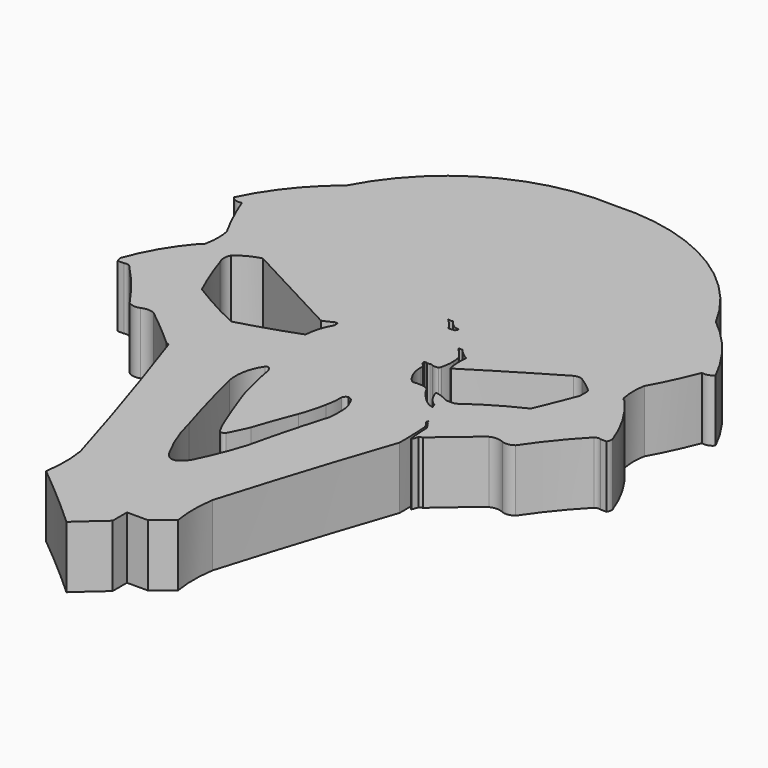
from build123d import *

# Parameters (mm, degrees)
F1_DEPTH  = 10.16
F4_DEPTH  = 25.4
F6_DEPTH  = 25.4
F7_DEPTH  = 25.4
F10_DEPTH = 25.4
F12_DEPTH = 25.4
F14_DEPTH = 25.4
F15_DEPTH = 25.4


with BuildPart() as f1:
    # F0 (on Top) → F1 (new body)
    with BuildSketch(Plane.XY):
        with BuildLine():
            ThreePointArc((0, 63.767748), (-17.65448, 59.682045), (-30.2726, 46.67602))
            ThreePointArc((-30.2726, 46.67602), (-35.533022, 41.398079), (-39.503437, 35.092168))
            ThreePointArc((-39.503437, 35.092168), (-38.70261, 34.534581), (-37.726826, 34.526207))
            ThreePointArc((-37.726826, 34.526207), (-36.116118, 30.735044), (-34.240589, 27.067663))
            ThreePointArc((-34.240589, 27.067663), (-34.053575, 25.094095), (-34.240589, 23.120526))
            ThreePointArc((-34.240589, 23.120526), (-34.405995, 22.577197), (-34.863163, 22.240207))
            ThreePointArc((-34.863163, 22.240207), (-38.005883, 17.866617), (-40.286936, 12.98791))
            ThreePointArc((-40.286936, 12.98791), (-40.250801, 12.501533), (-40.091339, 12.040622))
            ThreePointArc((-40.091339, 12.040622), (-39.578028, 12.030609), (-39.064717, 12.040622))
            ThreePointArc((-39.064717, 12.040622), (-38.570717, 12.093346), (-38.108911, 11.910179))
            ThreePointArc((-38.108911, 11.910179), (-34.708394, 8.065004), (-31.652335, 3.940761))
            ThreePointArc((-31.652335, 3.940761), (-30.702229, 3.532546), (-29.675039, 3.651797))
            ThreePointArc((-29.675039, 3.651797), (-28.585885, 3.905891), (-27.496731, 3.651797))
            ThreePointArc((-27.496731, 3.651797), (-24.212077, 0.972125), (-21.017917, -1.814796))
            ThreePointArc((-21.017917, -1.814796), (-20.731555, -1.896254), (-20.494564, -2.076457))
            ThreePointArc((-20.494564, -2.076457), (-15.499123, -17.06099), (-10.832877, -32.151278))
            ThreePointArc((-10.832877, -32.151278), (-10.54642, -35.683524), (-10.832877, -39.21577))
            ThreePointArc((-10.832877, -39.21577), (-5.34871, -43.824728), (0, -48.590217))
            Line((0, -48.590217), (0, 63.767748))
        make_face()
    extrude(amount=F1_DEPTH)

    # F2: F1 across plane


with BuildPart() as f1_1:
    add(f1.part)
    add(f1.part.mirror(Plane.YZ))

    # F3 (on face) → F4 (cut)
    with BuildSketch(Plane.XY.offset(10.16)):
        with BuildLine():
            ThreePointArc((-9.440057, 15.366854), (-17.723331, 19.770255), (-26.004789, 24.177067))
            ThreePointArc((-26.004789, 24.177067), (-27.957882, 23.437747), (-29.686313, 22.265701))
            ThreePointArc((-29.686313, 22.265701), (-29.950673, 21.145853), (-29.686313, 20.026006))
            ThreePointArc((-29.686313, 20.026006), (-28.328352, 16.27698), (-26.759041, 12.611394))
            ThreePointArc((-26.759041, 12.611394), (-22.577773, 10.165898), (-18.256141, 7.977986))
            ThreePointArc((-18.256141, 7.977986), (-13.363238, 9.424709), (-8.54657, 11.107927))
            ThreePointArc((-8.54657, 11.107927), (-8.163016, 13.311383), (-7.281333, 15.366854))
            ThreePointArc((-7.281333, 15.366854), (-7.263902, 15.767226), (-7.349596, 16.158707))
            ThreePointArc((-7.349596, 16.158707), (-7.465644, 16.142321), (-7.581691, 16.158707))
            ThreePointArc((-7.581691, 16.158707), (-7.765296, 16.10891), (-7.943197, 16.041516))
            ThreePointArc((-7.943197, 16.041516), (-8.665246, 15.645654), (-9.440057, 15.366854))
        make_face()
    extrude(amount=-F4_DEPTH, mode=Mode.SUBTRACT)

    # F5 (on face) → F6 (cut)
    with BuildSketch(Plane.XY.offset(10.16)):
        with BuildLine():
            ThreePointArc((26.779845, 23.610441), (26.097924, 23.761206), (25.416004, 23.610441))
            ThreePointArc((25.416004, 23.610441), (18.607041, 19.554149), (11.872991, 15.374669))
            ThreePointArc((11.872991, 15.374669), (11.784563, 15.399125), (11.740611, 15.479661))
            ThreePointArc((11.740611, 15.479661), (11.544661, 17.116567), (11.585694, 18.764649))
            ThreePointArc((11.585694, 18.764649), (11.552172, 18.854706), (11.483606, 18.922031))
            ThreePointArc((11.483606, 18.922031), (10.525412, 19.57962), (9.721251, 20.418598))
            ThreePointArc((9.721251, 20.418598), (9.463476, 20.352349), (9.205701, 20.418598))
            ThreePointArc((9.205701, 20.418598), (9.216779, 20.268047), (9.28207, 20.13194))
            ThreePointArc((9.28207, 20.13194), (9.992951, 19.397913), (10.64459, 18.610822))
            ThreePointArc((10.64459, 18.610822), (10.845006, 17.887798), (10.89716, 17.139327))
            ThreePointArc((10.89716, 17.139327), (10.86894, 16.030174), (10.64459, 14.943582))
            ThreePointArc((10.64459, 14.943582), (10.577259, 14.755271), (10.445807, 14.604555))
            ThreePointArc((10.445807, 14.604555), (9.979169, 14.503294), (9.512532, 14.604555))
            ThreePointArc((9.512532, 14.604555), (9.270359, 14.674513), (9.018873, 14.691722))
            ThreePointArc((9.018873, 14.691722), (8.746697, 14.647151), (8.479292, 14.714682))
            ThreePointArc((8.479292, 14.714682), (8.273683, 14.689702), (8.070121, 14.727926))
            ThreePointArc((8.070121, 14.727926), (8.03469, 14.541827), (8.070121, 14.355727))
            ThreePointArc((8.070121, 14.355727), (8.149485, 14.209785), (8.254112, 14.080747))
            ThreePointArc((8.254112, 14.080747), (8.625749, 13.721408), (8.698206, 13.20956))
            ThreePointArc((8.698206, 13.20956), (8.882241, 11.717422), (9.502169, 10.347737))
            ThreePointArc((9.502169, 10.347737), (9.882135, 9.818735), (10.377591, 9.395958))
            ThreePointArc((10.377591, 9.395958), (11.242879, 9.460882), (12.108167, 9.395958))
            ThreePointArc((12.108167, 9.395958), (12.573095, 9.259067), (12.980684, 8.996828))
            ThreePointArc((12.980684, 8.996828), (13.698572, 7.878211), (14.580314, 6.883626))
            ThreePointArc((14.580314, 6.883626), (15.13573, 6.352216), (15.763463, 5.908555))
            ThreePointArc((15.763463, 5.908555), (16.273342, 5.65783), (16.83897, 5.603942))
            ThreePointArc((16.83897, 5.603942), (16.601574, 5.836098), (16.552264, 6.16446))
            ThreePointArc((16.552264, 6.16446), (15.568637, 6.990271), (14.902712, 8.088463))
            ThreePointArc((14.902712, 8.088463), (14.764083, 8.342366), (14.646014, 8.606459))
            ThreePointArc((14.646014, 8.606459), (14.603897, 8.784513), (14.646014, 8.962567))
            ThreePointArc((14.646014, 8.962567), (15.764009, 8.643203), (16.80848, 8.132336))
            ThreePointArc((16.80848, 8.132336), (17.619404, 8.067218), (18.430328, 8.132336))
            ThreePointArc((18.430328, 8.132336), (22.485553, 10.805644), (26.779845, 13.075112))
            ThreePointArc((26.779845, 13.075112), (28.172048, 16.405059), (29.496718, 19.762442))
            ThreePointArc((29.496718, 19.762442), (29.514459, 20.575022), (29.496718, 21.387603))
            ThreePointArc((29.496718, 21.387603), (29.404906, 21.57474), (29.264623, 21.728918))
            ThreePointArc((29.264623, 21.728918), (28.05393, 22.711537), (26.779845, 23.610441))
        make_face()
    extrude(amount=-F6_DEPTH, mode=Mode.SUBTRACT)

    # F5 (on face) → F7 (cut)
    with BuildSketch(Plane.XY.offset(10.16)):
        with BuildLine():
            ThreePointArc((26.779845, 23.610441), (26.097924, 23.761206), (25.416004, 23.610441))
            ThreePointArc((25.416004, 23.610441), (18.607041, 19.554149), (11.872991, 15.374669))
            ThreePointArc((11.872991, 15.374669), (11.784563, 15.399125), (11.740611, 15.479661))
            ThreePointArc((11.740611, 15.479661), (11.544661, 17.116567), (11.585694, 18.764649))
            ThreePointArc((11.585694, 18.764649), (11.552172, 18.854706), (11.483606, 18.922031))
            ThreePointArc((11.483606, 18.922031), (10.525412, 19.57962), (9.721251, 20.418598))
            ThreePointArc((9.721251, 20.418598), (9.463476, 20.352349), (9.205701, 20.418598))
            ThreePointArc((9.205701, 20.418598), (9.216779, 20.268047), (9.28207, 20.13194))
            ThreePointArc((9.28207, 20.13194), (9.992951, 19.397913), (10.64459, 18.610822))
            ThreePointArc((10.64459, 18.610822), (10.845006, 17.887798), (10.89716, 17.139327))
            ThreePointArc((10.89716, 17.139327), (10.86894, 16.030174), (10.64459, 14.943582))
            ThreePointArc((10.64459, 14.943582), (10.577259, 14.755271), (10.445807, 14.604555))
            ThreePointArc((10.445807, 14.604555), (9.979169, 14.503294), (9.512532, 14.604555))
            ThreePointArc((9.512532, 14.604555), (9.270359, 14.674513), (9.018873, 14.691722))
            ThreePointArc((9.018873, 14.691722), (8.746697, 14.647151), (8.479292, 14.714682))
            ThreePointArc((8.479292, 14.714682), (8.273683, 14.689702), (8.070121, 14.727926))
            ThreePointArc((8.070121, 14.727926), (8.03469, 14.541827), (8.070121, 14.355727))
            ThreePointArc((8.070121, 14.355727), (8.149485, 14.209785), (8.254112, 14.080747))
            ThreePointArc((8.254112, 14.080747), (8.625749, 13.721408), (8.698206, 13.20956))
            ThreePointArc((8.698206, 13.20956), (8.882241, 11.717422), (9.502169, 10.347737))
            ThreePointArc((9.502169, 10.347737), (9.882135, 9.818735), (10.377591, 9.395958))
            ThreePointArc((10.377591, 9.395958), (11.242879, 9.460882), (12.108167, 9.395958))
            ThreePointArc((12.108167, 9.395958), (12.573095, 9.259067), (12.980684, 8.996828))
            ThreePointArc((12.980684, 8.996828), (13.698572, 7.878211), (14.580314, 6.883626))
            ThreePointArc((14.580314, 6.883626), (15.13573, 6.352216), (15.763463, 5.908555))
            ThreePointArc((15.763463, 5.908555), (16.273342, 5.65783), (16.83897, 5.603942))
            ThreePointArc((16.83897, 5.603942), (16.601574, 5.836098), (16.552264, 6.16446))
            ThreePointArc((16.552264, 6.16446), (15.568637, 6.990271), (14.902712, 8.088463))
            ThreePointArc((14.902712, 8.088463), (14.764083, 8.342366), (14.646014, 8.606459))
            ThreePointArc((14.646014, 8.606459), (14.603897, 8.784513), (14.646014, 8.962567))
            ThreePointArc((14.646014, 8.962567), (15.764009, 8.643203), (16.80848, 8.132336))
            ThreePointArc((16.80848, 8.132336), (17.619404, 8.067218), (18.430328, 8.132336))
            ThreePointArc((18.430328, 8.132336), (22.485553, 10.805644), (26.779845, 13.075112))
            ThreePointArc((26.779845, 13.075112), (28.172048, 16.405059), (29.496718, 19.762442))
            ThreePointArc((29.496718, 19.762442), (29.514459, 20.575022), (29.496718, 21.387603))
            ThreePointArc((29.496718, 21.387603), (29.404906, 21.57474), (29.264623, 21.728918))
            ThreePointArc((29.264623, 21.728918), (28.05393, 22.711537), (26.779845, 23.610441))
        make_face()
    extrude(amount=-F7_DEPTH, mode=Mode.SUBTRACT)

    # F9 (on face) → F10 (cut)
    with BuildSketch(Plane.XY.offset(10.16)):
        with BuildLine():
            ThreePointArc((4.925719, 24.734663), (4.358561, 25.202124), (3.879263, 25.759317))
            ThreePointArc((3.879263, 25.759317), (3.47364, 25.738548), (3.07262, 25.80292))
            ThreePointArc((3.07262, 25.80292), (3.932177, 24.900686), (4.678787, 23.902969))
            ThreePointArc((4.678787, 23.902969), (4.968157, 23.876046), (5.257526, 23.902969))
            ThreePointArc((5.257526, 23.902969), (5.471549, 23.941068), (5.68876, 23.949821))
            ThreePointArc((5.68876, 23.949821), (5.809879, 24.242721), (6.002897, 24.494126))
            ThreePointArc((6.002897, 24.494126), (5.446994, 24.536857), (4.925719, 24.734663))
        make_face()
    extrude(amount=-F10_DEPTH, mode=Mode.SUBTRACT)

    # F11 (on face) → F12 (cut)
    with BuildSketch(Plane.XY.offset(10.16)):
        with BuildLine():
            ThreePointArc((-5.970573, -0.01627), (-6.109203, 0.456746), (-6.345154, 0.889516))
            ThreePointArc((-6.345154, 0.889516), (-6.689576, 1.098061), (-7.054921, 0.928825))
            ThreePointArc((-7.054921, 0.928825), (-8.213299, -1.829074), (-8.245851, -4.820191))
            ThreePointArc((-8.245851, -4.820191), (-6.61875, -11.1597), (-4.784864, -17.442509))
            ThreePointArc((-4.784864, -17.442509), (-3.540805, -21.465261), (-1.751686, -25.276989))
            ThreePointArc((-1.751686, -25.276989), (-1.374926, -25.85551), (-0.895692, -26.352471))
            ThreePointArc((-0.895692, -26.352471), (-0.127491, -26.585061), (0.640709, -26.352471))
            ThreePointArc((0.640709, -26.352471), (1.204242, -25.843938), (1.708963, -25.276989))
            ThreePointArc((1.708963, -25.276989), (3.442966, -21.425221), (4.850405, -17.442509))
            ThreePointArc((4.850405, -17.442509), (6.404523, -11.101082), (8.187608, -4.820191))
            ThreePointArc((8.187608, -4.820191), (8.269591, -3.157852), (8.187608, -1.495513))
            ThreePointArc((8.187608, -1.495513), (7.817009, -0.375892), (7.272493, 0.670241))
            ThreePointArc((7.272493, 0.670241), (6.934713, 0.893353), (6.547143, 1.010242))
            ThreePointArc((6.547143, 1.010242), (6.152659, 0.765058), (5.926179, 0.359546))
            ThreePointArc((5.926179, 0.359546), (5.896144, -1.063655), (5.652719, -2.466205))
            ThreePointArc((5.652719, -2.466205), (5.175303, -4.601852), (4.499744, -6.683326))
            ThreePointArc((4.499744, -6.683326), (3.234719, -10.017682), (2.080254, -13.391913))
            ThreePointArc((2.080254, -13.391913), (1.346216, -14.983377), (0.568072, -16.553747))
            ThreePointArc((0.568072, -16.553747), (0.059429, -16.813507), (-0.449214, -16.553747))
            ThreePointArc((-0.449214, -16.553747), (-1.230123, -15.0027), (-1.878913, -13.391913))
            ThreePointArc((-1.878913, -13.391913), (-3.176957, -10.052218), (-4.397224, -6.683326))
            ThreePointArc((-4.397224, -6.683326), (-4.972486, -4.581944), (-5.492472, -2.466205))
            ThreePointArc((-5.492472, -2.466205), (-5.738211, -1.242543), (-5.970573, -0.01627))
        make_face()
    extrude(amount=-F12_DEPTH, mode=Mode.SUBTRACT)

    # F13 (on face) → F14 (cut)
    with BuildSketch(Plane.XY.offset(10.16)):
        with BuildLine():
            Line((4.413565, -41.689627), (4.413565, -44.638071))
            ThreePointArc((4.413565, -44.638071), (7.415199, -44.659785), (7.849302, -41.689627))
            Line((7.849302, -41.689627), (4.413565, -41.689627))
        make_face()
    extrude(amount=-F14_DEPTH, mode=Mode.SUBTRACT)

    # F8 (on face) → F15 (cut)
    with BuildSketch(Plane.XY.offset(10.16)):
        with BuildLine():
            ThreePointArc((19.416461, 0.456608), (19.541763, -2.144691), (19.576919, -4.748769))
            ThreePointArc((19.576919, -4.748769), (24.576265, -5.609312), (20.221664, -3.007112))
            ThreePointArc((20.221664, -3.007112), (20.163107, -3.065361), (20.081665, -3.079113))
            ThreePointArc((20.081665, -3.079113), (20.049357, -3.058558), (20.034974, -3.02307))
            ThreePointArc((20.034974, -3.02307), (19.849926, -1.255887), (19.782001, 0.51966))
            ThreePointArc((19.782001, 0.51966), (19.412454, 1.146014), (18.991902, 1.739328))
            ThreePointArc((18.991902, 1.739328), (18.79816, 1.913536), (18.746434, 2.168896))
            ThreePointArc((18.746434, 2.168896), (18.695387, 2.091304), (18.677641, 2.000137))
            ThreePointArc((18.677641, 2.000137), (18.662848, 1.878534), (18.677641, 1.756931))
            ThreePointArc((18.677641, 1.756931), (19.145995, 1.162987), (19.416461, 0.456608))
        make_face()
    extrude(amount=-F15_DEPTH, mode=Mode.SUBTRACT)


solid = f1_1.part
